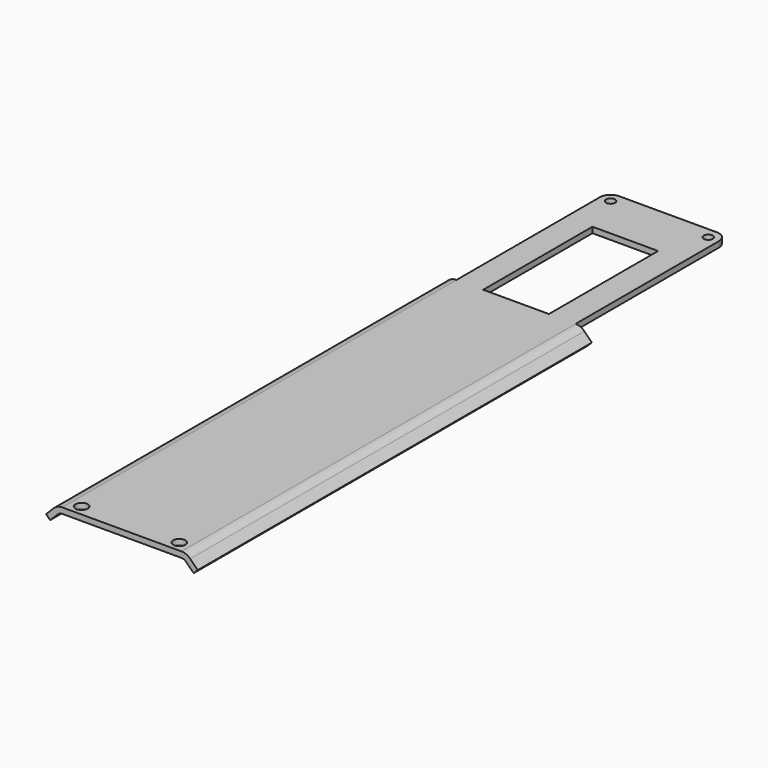
from build123d import *

# Parameters (mm, degrees)
F0_W     = 35.433
F0_H     = 203.2
F0_R     = 1.8288
F0_R_2   = 1.35255
F0_W_2   = 19.558
F0_H_2   = 40.64
F1_DEPTH = 1.70942
F3_DEPTH = 146.677299
F4_R     = 3.175


with BuildPart() as f1:
    # F0 (on Top) → F1 (new body)
    with BuildSketch(Plane.XY):
        with Locations((0, -65.397299)):
            Rectangle(F0_W, F0_H)
        with Locations((-14.5415, -163.822299)):
            Circle(F0_R, mode=Mode.SUBTRACT)
        with Locations((14.5415, -163.822299)):
            Circle(F0_R, mode=Mode.SUBTRACT)
        with Locations((-14.5415, 33.027701)):
            Circle(F0_R_2, mode=Mode.SUBTRACT)
        Rectangle(F0_W_2, F0_H_2, mode=Mode.SUBTRACT)
        with Locations((14.5415, 33.027701)):
            Circle(F0_R_2, mode=Mode.SUBTRACT)
    extrude(amount=F1_DEPTH)

    # F2 (on face) → F3 (join, through all)
    with BuildSketch(Plane.XZ.offset(166.997299)):
        with BuildLine():
            ThreePointArc((-19.119216, -0.581024), (-18.475644, -0.151003), (-17.7165, 0))
            Line((-17.7165, 0), (-17.7165, 1.70942))
            ThreePointArc((-17.7165, 1.70942), (-19.129811, 1.428295), (-20.327958, 0.627718))
            Line((-20.327958, 0.627718), (-22.573023, -1.617346))
            Line((-22.573023, -1.617346), (-21.36428, -2.826088))
            Line((-21.36428, -2.826088), (-19.119216, -0.581024))
        make_face()
        with BuildLine():
            Line((17.7165, 1.70942), (17.7165, 0))
            ThreePointArc((17.7165, 0), (18.475644, -0.151003), (19.119216, -0.581024))
            Line((19.119216, -0.581024), (21.36428, -2.826088))
            Line((21.36428, -2.826088), (22.573023, -1.617346))
            Line((22.573023, -1.617346), (20.327958, 0.627718))
            ThreePointArc((20.327958, 0.627718), (19.129811, 1.428295), (17.7165, 1.70942))
        make_face()
    extrude(amount=-F3_DEPTH)

    # F4
    f4_edges = [f1.edges().sort_by_distance(p)[0] for p in [
        (17.7165, 36.202701, 0.85471),
        (-17.7165, 36.202701, 0.85471),
    ]]
    fillet(f4_edges, radius=F4_R)


solid = f1.part
